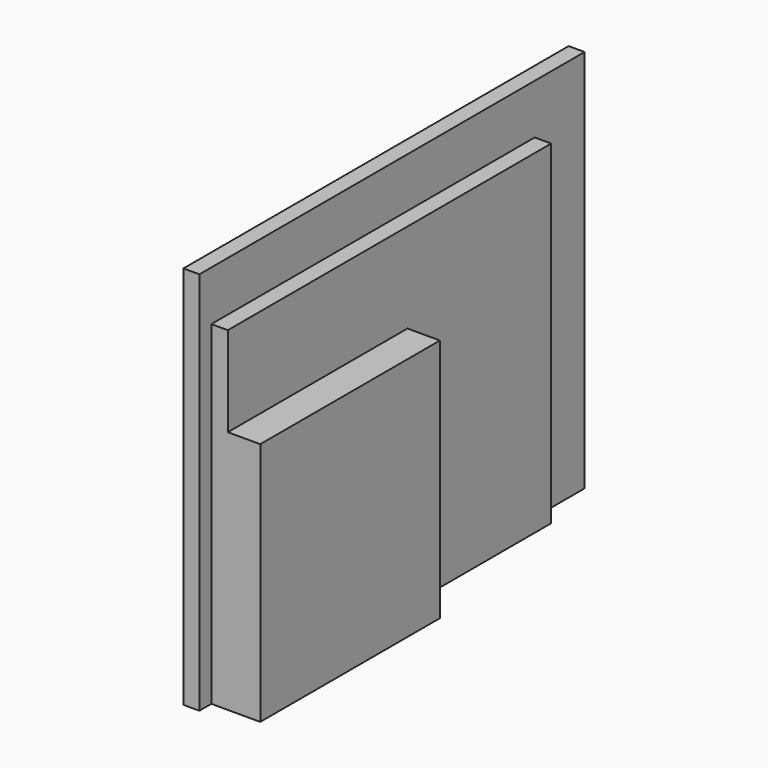
from build123d import *

# Parameters (mm, degrees)
F0_W     = 96.5
F0_H     = 77
F1_DEPTH = 1.6
F2_W     = 81
F2_H     = 67
F3_DEPTH = 3.3
F4_W     = 45
F4_H     = 49
F5_DEPTH = 6.5


with BuildPart() as f1:
    # F0 (on Right) → F1 (new body, symmetric)
    with BuildSketch(Plane.YZ):
        Rectangle(F0_W, F0_H)
    extrude(amount=F1_DEPTH, both=True)

    # F2 (on face) → F3 (join)
    with BuildSketch(Plane.YZ.offset(1.6)):
        with Locations((-4.75, -5)):
            Rectangle(F2_W, F2_H)
    extrude(amount=F3_DEPTH)

    # F4 (on face) → F5 (join)
    with BuildSketch(Plane.YZ.offset(4.9)):
        with Locations((-22.75, -14)):
            Rectangle(F4_W, F4_H)
    extrude(amount=F5_DEPTH)


solid = f1.part
